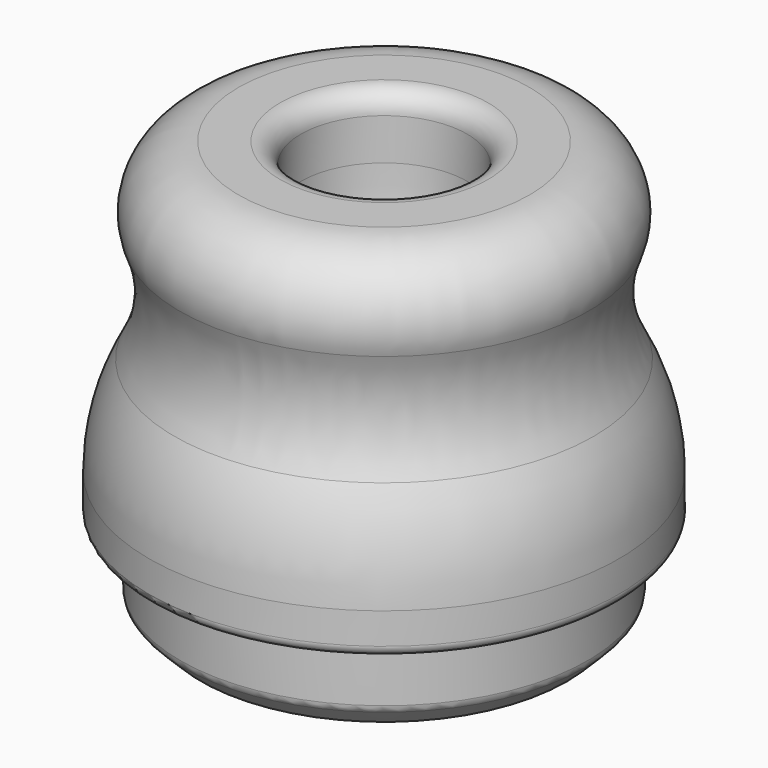
from build123d import *

# Parameters (mm, degrees)
F2_SIZE = 1
F3_R    = 0.5


with BuildPart() as f1:
    # F0 (on Front) → F1 (revolve)
    with BuildSketch(Plane.XZ):
        with BuildLine():
            Line((-9.8, 0), (0, 0))
            Line((0, 0), (0, 5))
            ThreePointArc((0, 5), (-2.973665961, 10.6754446797), (-4, 17))
            Line((-4, 17), (-4, 19))
            ThreePointArc((-4, 19), (-4.2928932188, 19.7071067812), (-5, 20))
            Line((-5, 20), (-7, 20))
            ThreePointArc((-7, 20), (-9.4494897428, 18.7320508076), (-9.8284271247, 16))
            ThreePointArc((-9.8284271247, 16), (-9.3577053882, 13.3627872928), (-10.0816551315, 10.7835690808))
            ThreePointArc((-10.0816551315, 10.7835690808), (-10.9906282385, 8.4681418805), (-11.3, 6))
            Line((-11.3, 6), (-11.3, 4))
            Line((-11.3, 4), (-9.8, 4))
            Line((-9.8, 4), (-9.8, 0))
        make_face()
    revolve(axis=Axis((0, 0, -0.4526181147), (0, 0, -1)))

    # F2
    f2_edges = [f1.edges().sort_by_distance(p)[0] for p in [
        (9.8, 0, 0),
    ]]
    chamfer(f2_edges, length=F2_SIZE)

    # F3
    f3_edges = [f1.edges().sort_by_distance(p)[0] for p in [
        (9.8, 0, 4),
        (11.3, 0, 4),
        (9.8, 0, 1),
    ]]
    fillet(f3_edges, radius=F3_R)


solid = f1.part
